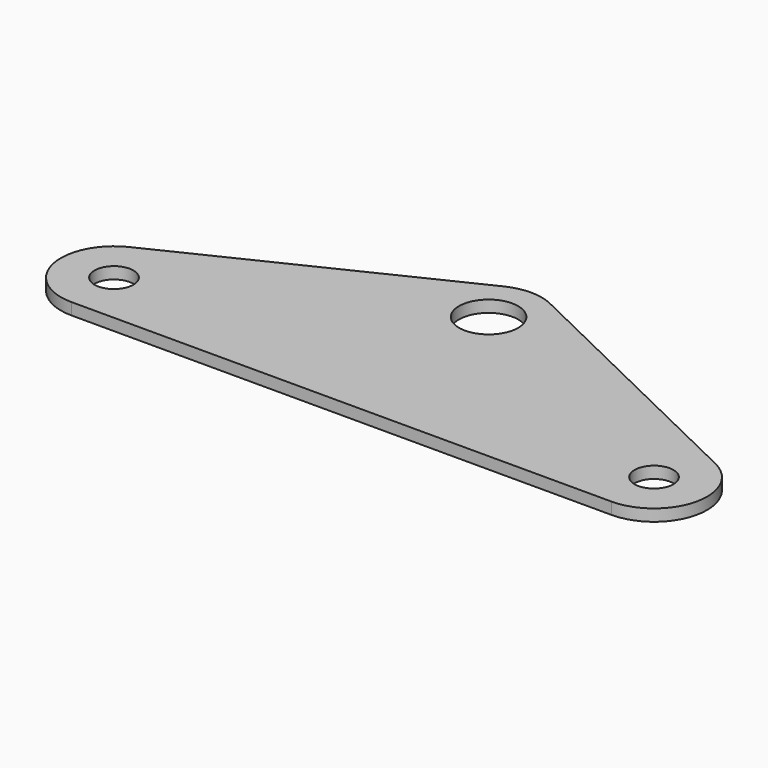
from build123d import *

# Parameters (mm, degrees)
SKETCH_R   = 1.65
SKETCH_R_2 = 2.51
PAD_DEPTH  = 1


with BuildPart() as part:
    # Sketch → Pad (new body)
    with BuildSketch(Plane.XY):
        with BuildLine():
            ThreePointArc((-24.915122, 4.059359), (-27.345896, -1.008065), (-22.95, -4.51))
            Line((22.949977, -4.51), (-22.95, -4.51))
            ThreePointArc((22.949977, -4.51), (27.345894, -1.008077), (24.915123, 4.059359))
            Line((1.96512, 15.16936), (24.915123, 4.059359))
            ThreePointArc((1.96512, 15.16936), (2e-06, 15.62), (-1.965115, 15.169362))
            Line((-24.915122, 4.059359), (-1.965115, 15.169362))
        make_face()
        with Locations((-22.95, 0)):
            Circle(SKETCH_R, mode=Mode.SUBTRACT)
        with Locations((22.95, 0)):
            Circle(SKETCH_R, mode=Mode.SUBTRACT)
        with Locations((0, 11.11)):
            Circle(SKETCH_R_2, mode=Mode.SUBTRACT)
    extrude(amount=PAD_DEPTH)


solid = part.part
